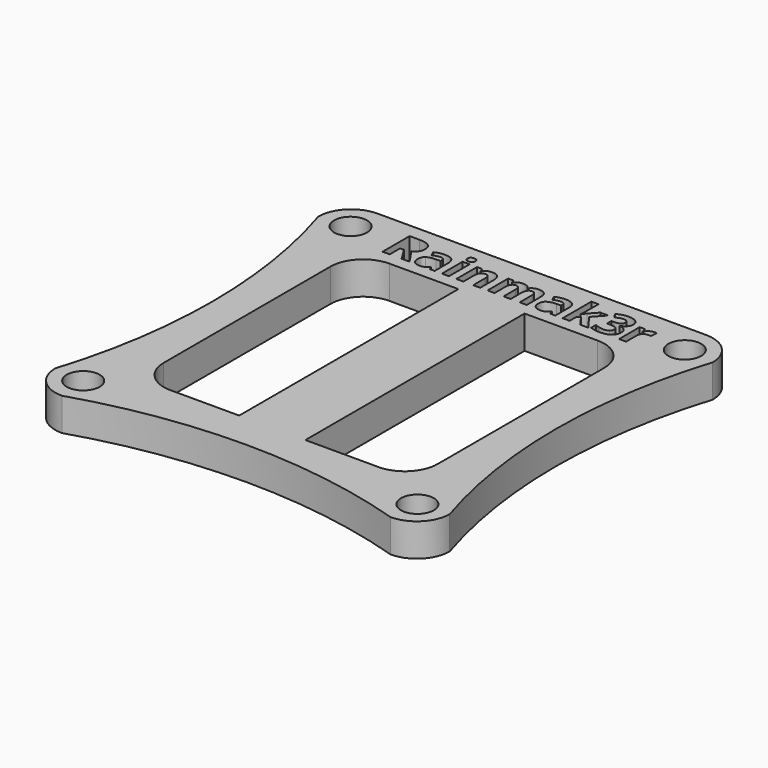
from build123d import *

# Parameters (mm, degrees)
F0_R     = 1.5
F0_W     = 0.6436728242
F0_H     = 2.3599085495
F0_W_2   = 6.0424739495
F0_H_2   = 25
F1_DEPTH = 3


with BuildPart() as f1:
    # F0 (on Top) → F1 (new body)
    with BuildSketch(Plane.XY):
        with BuildLine():
            Line((-3, 28.9222662295), (-33, 28.9222662295))
            ThreePointArc((-33, 28.9222662295), (-35.1213203436, 28.043586573), (-36, 25.9222662295))
            ThreePointArc((-36, 25.9222662295), (-33.6969600708, 10.9222662295), (-36, -4.0777337705))
            ThreePointArc((-36, -4.0777337705), (-35.1213203436, -6.1990541141), (-33, -7.0777337705))
            ThreePointArc((-33, -7.0777337705), (-18, -4.7746938414), (-3, -7.0777337705))
            ThreePointArc((-3, -7.0777337705), (-0.8786796564, -6.1990541141), (0, -4.0777337705))
            ThreePointArc((0, -4.0777337705), (-2.3030399292, 10.9222662295), (0, 25.9222662295))
            ThreePointArc((0, 25.9222662295), (-0.8786796564, 28.043586573), (-3, 28.9222662295))
        make_face()
        with Locations((-33.25, -4.3277337705)):
            Circle(F0_R, mode=Mode.SUBTRACT)
        with Locations((-2.75, -4.3277337705)):
            Circle(F0_R, mode=Mode.SUBTRACT)
        with Locations((-33.25, 26.1722662295)):
            Circle(F0_R, mode=Mode.SUBTRACT)
        with BuildLine():
            Line((-28.0317942331, 25.7348805656), (-28.3796342167, 25.7348805656))
            Line((-28.3796342167, 25.7348805656), (-28.3796342167, 24.5508737862))
            Line((-28.3796342167, 24.5508737862), (-29.03411372, 24.5508737862))
            Line((-29.03411372, 24.5508737862), (-29.03411372, 27.6368560881))
            Line((-29.03411372, 27.6368560881), (-28.135133102, 27.6368560881))
            add(Edge.make_bspline(
                [(-28.135133102, 27.6368560881), (-27.5056440441, 27.6368560881), (-27.2040701554, 27.4078895745)],
                knots=[0, 0, 0, 1, 1, 1], degree=2))
            add(Edge.make_bspline(
                [(-27.2040701554, 27.4078895745), (-26.9024962666, 27.178923061), (-26.9024962666, 26.7122096072)],
                knots=[0, 0, 0, 1, 1, 1], degree=2))
            add(Edge.make_bspline(
                [(-26.9024962666, 26.7122096072), (-26.9024962666, 26.4400163772), (-27.0521012305, 26.2279352998)],
                knots=[0, 0, 0, 1, 1, 1], degree=2))
            add(Edge.make_bspline(
                [(-27.0521012305, 26.2279352998), (-27.2017061943, 26.0158542224), (-27.476601094, 25.8956299173)],
                knots=[0, 0, 0, 1, 1, 1], degree=2))
            add(Edge.make_bspline(
                [(-27.476601094, 25.8956299173), (-26.7795702918, 24.854811636), (-26.5688400492, 24.5508737862)],
                knots=[0, 0, 0, 1, 1, 1], degree=2))
            Line((-26.5688400492, 24.5508737862), (-27.2949138016, 24.5508737862))
            Line((-27.2949138016, 24.5508737862), (-28.0317942331, 25.7348805656))
        make_face(mode=Mode.SUBTRACT)
        with BuildLine():
            Line((-24.2832274186, 24.5508737862), (-24.7323800189, 24.5508737862))
            Line((-24.7323800189, 24.5508737862), (-24.857332246, 24.8716970721))
            Line((-24.857332246, 24.8716970721), (-24.8742176821, 24.8716970721))
            add(Edge.make_bspline(
                [(-24.8742176821, 24.8716970721), (-25.0363178687, 24.6670455866), (-25.2085493169, 24.5876840369)],
                knots=[0, 0, 0, 1, 1, 1], degree=2))
            add(Edge.make_bspline(
                [(-25.2085493169, 24.5876840369), (-25.3807807652, 24.5083224872), (-25.6570264998, 24.5083224872)],
                knots=[0, 0, 0, 1, 1, 1], degree=2))
            add(Edge.make_bspline(
                [(-25.6570264998, 24.5083224872), (-25.9967614741, 24.5083224872), (-26.1919571155, 24.7028427111)],
                knots=[0, 0, 0, 1, 1, 1], degree=2))
            add(Edge.make_bspline(
                [(-26.1919571155, 24.7028427111), (-26.3871527568, 24.897362935), (-26.3871527568, 25.2560095978)],
                knots=[0, 0, 0, 1, 1, 1], degree=2))
            add(Edge.make_bspline(
                [(-26.3871527568, 25.2560095978), (-26.3871527568, 25.6315416967), (-26.1244153711, 25.8098519019)],
                knots=[0, 0, 0, 1, 1, 1], degree=2))
            add(Edge.make_bspline(
                [(-26.1244153711, 25.8098519019), (-25.8616779853, 25.9881621071), (-25.3321507092, 26.0070737956)],
                knots=[0, 0, 0, 1, 1, 1], degree=2))
            Line((-25.3321507092, 26.0070737956), (-24.9221723207, 26.019906727))
            Line((-24.9221723207, 26.019906727), (-24.9221723207, 26.123245596))
            add(Edge.make_bspline(
                [(-24.9221723207, 26.123245596), (-24.9221723207, 26.4818922587), (-25.2895994102, 26.4818922587)],
                knots=[0, 0, 0, 1, 1, 1], degree=2))
            add(Edge.make_bspline(
                [(-25.2895994102, 26.4818922587), (-25.5725993193, 26.4818922587), (-25.9548855926, 26.3110116454)],
                knots=[0, 0, 0, 1, 1, 1], degree=2))
            Line((-25.9548855926, 26.3110116454), (-26.1676420875, 26.7459804794))
            add(Edge.make_bspline(
                [(-26.1676420875, 26.7459804794), (-25.7603653687, 26.9594123917), (-25.2646089648, 26.9594123917)],
                knots=[0, 0, 0, 1, 1, 1], degree=2))
            add(Edge.make_bspline(
                [(-25.2646089648, 26.9594123917), (-24.7897905016, 26.9594123917), (-24.5365089601, 26.7523969451)],
                knots=[0, 0, 0, 1, 1, 1], degree=2))
            add(Edge.make_bspline(
                [(-24.5365089601, 26.7523969451), (-24.2832274186, 26.5453814985), (-24.2832274186, 26.123245596)],
                knots=[0, 0, 0, 1, 1, 1], degree=2))
            Line((-24.2832274186, 26.123245596), (-24.2832274186, 24.5508737862))
        make_face(mode=Mode.SUBTRACT)
        with Locations((-23.2981310764, 25.730828061)):
            Rectangle(F0_W, F0_H, mode=Mode.SUBTRACT)
        with BuildLine():
            add(Edge.make_bspline(
                [(-23.2971179503, 27.2039135064), (-23.6476596037, 27.2039135064), (-23.6476596037, 27.5206842877)],
                knots=[0, 0, 0, 1, 1, 1], degree=2))
            add(Edge.make_bspline(
                [(-23.6476596037, 27.5206842877), (-23.6476596037, 27.8354288166), (-23.2971179503, 27.8354288166)],
                knots=[0, 0, 0, 1, 1, 1], degree=2))
            add(Edge.make_bspline(
                [(-23.2971179503, 27.8354288166), (-22.9465762968, 27.8354288166), (-22.9465762968, 27.5206842877)],
                knots=[0, 0, 0, 1, 1, 1], degree=2))
            add(Edge.make_bspline(
                [(-22.9465762968, 27.5206842877), (-22.9465762968, 27.3707416151), (-23.0340428558, 27.2873275608)],
                knots=[0, 0, 0, 1, 1, 1], degree=2))
            add(Edge.make_bspline(
                [(-23.0340428558, 27.2873275608), (-23.1215094148, 27.2039135064), (-23.2971179503, 27.2039135064)],
                knots=[0, 0, 0, 1, 1, 1], degree=2))
        make_face(mode=Mode.SUBTRACT)
        with BuildLine():
            Line((-20.1226559633, 26.0894747238), (-20.1226559633, 24.5508737862))
            Line((-20.1226559633, 24.5508737862), (-20.7663287874, 24.5508737862))
            Line((-20.7663287874, 24.5508737862), (-20.7663287874, 25.9294007895))
            add(Edge.make_bspline(
                [(-20.7663287874, 25.9294007895), (-20.7663287874, 26.1847085834), (-20.8571724337, 26.3123624803)],
                knots=[0, 0, 0, 1, 1, 1], degree=2))
            add(Edge.make_bspline(
                [(-20.8571724337, 26.3123624803), (-20.9480160799, 26.4400163772), (-21.1465888084, 26.4400163772)],
                knots=[0, 0, 0, 1, 1, 1], degree=2))
            add(Edge.make_bspline(
                [(-21.1465888084, 26.4400163772), (-21.416755786, 26.4400163772), (-21.5369800911, 26.2596799197)],
                knots=[0, 0, 0, 1, 1, 1], degree=2))
            add(Edge.make_bspline(
                [(-21.5369800911, 26.2596799197), (-21.6572043961, 26.0793434621), (-21.6572043961, 25.6612600642)],
                knots=[0, 0, 0, 1, 1, 1], degree=2))
            Line((-21.6572043961, 25.6612600642), (-21.6572043961, 24.5508737862))
            Line((-21.6572043961, 24.5508737862), (-22.3008772203, 24.5508737862))
            Line((-22.3008772203, 24.5508737862), (-22.3008772203, 26.9107823357))
            Line((-22.3008772203, 26.9107823357), (-21.809173321, 26.9107823357))
            Line((-21.809173321, 26.9107823357), (-21.7227198882, 26.6088707382))
            Line((-21.7227198882, 26.6088707382), (-21.6869227637, 26.6088707382))
            add(Edge.make_bspline(
                [(-21.6869227637, 26.6088707382), (-21.5788559726, 26.7797513516), (-21.390076797, 26.8672179106)],
                knots=[0, 0, 0, 1, 1, 1], degree=2))
            add(Edge.make_bspline(
                [(-21.390076797, 26.8672179106), (-21.2012976214, 26.9546844696), (-20.9608490113, 26.9546844696)],
                knots=[0, 0, 0, 1, 1, 1], degree=2))
            add(Edge.make_bspline(
                [(-20.9608490113, 26.9546844696), (-20.5488443704, 26.9546844696), (-20.3357501669, 26.7321344218)],
                knots=[0, 0, 0, 1, 1, 1], degree=2))
            add(Edge.make_bspline(
                [(-20.3357501669, 26.7321344218), (-20.1226559633, 26.5095843739), (-20.1226559633, 26.0894747238)],
                knots=[0, 0, 0, 1, 1, 1], degree=2))
        make_face(mode=Mode.SUBTRACT)
        with BuildLine():
            ThreePointArc((-30.5, 20.4222662295), (-29.6213203436, 22.543586573), (-27.5, 23.4222662295))
            Line((-27.5, 23.4222662295), (-21.2140157819, 23.4222662295))
            Line((-21.2140157819, 23.4222662295), (-15.1715418324, 23.4222662295))
            Line((-15.1715418324, 23.4222662295), (-8.5, 23.4222662295))
            ThreePointArc((-8.5, 23.4222662295), (-6.3786796564, 22.543586573), (-5.5, 20.4222662295))
            Line((-5.5, 20.4222662295), (-5.5, 1.4222662295))
            ThreePointArc((-5.5, 1.4222662295), (-6.3786796564, -0.6990541141), (-8.5, -1.5777337705))
            Line((-8.5, -1.5777337705), (-15.1715418324, -1.5777337705))
            Line((-15.1715418324, -1.5777337705), (-21.2140157819, -1.5777337705))
            Line((-21.2140157819, -1.5777337705), (-27.5, -1.5777337705))
            ThreePointArc((-27.5, -1.5777337705), (-29.6213203436, -0.6990541141), (-30.5, 1.4222662295))
            Line((-30.5, 1.4222662295), (-30.5, 20.4222662295))
        make_face(mode=Mode.SUBTRACT)
        with BuildLine():
            Line((-17.3473656857, 25.7348805656), (-17.3473656857, 24.5508737862))
            Line((-17.3473656857, 24.5508737862), (-17.9910385098, 24.5508737862))
            Line((-17.9910385098, 24.5508737862), (-17.9910385098, 25.9294007895))
            add(Edge.make_bspline(
                [(-17.9910385098, 25.9294007895), (-17.9910385098, 26.1847085834), (-18.0764788165, 26.3123624803)],
                knots=[0, 0, 0, 1, 1, 1], degree=2))
            add(Edge.make_bspline(
                [(-18.0764788165, 26.3123624803), (-18.1619191232, 26.4400163772), (-18.345632668, 26.4400163772)],
                knots=[0, 0, 0, 1, 1, 1], degree=2))
            add(Edge.make_bspline(
                [(-18.345632668, 26.4400163772), (-18.5928354525, 26.4400163772), (-18.7046170395, 26.2583290848)],
                knots=[0, 0, 0, 1, 1, 1], degree=2))
            add(Edge.make_bspline(
                [(-18.7046170395, 26.2583290848), (-18.8163986265, 26.0766417923), (-18.8163986265, 25.6612600642)],
                knots=[0, 0, 0, 1, 1, 1], degree=2))
            Line((-18.8163986265, 25.6612600642), (-18.8163986265, 24.5508737862))
            Line((-18.8163986265, 24.5508737862), (-19.4600714506, 24.5508737862))
            Line((-19.4600714506, 24.5508737862), (-19.4600714506, 26.9107823357))
            Line((-19.4600714506, 26.9107823357), (-18.9683675514, 26.9107823357))
            Line((-18.9683675514, 26.9107823357), (-18.8819141185, 26.6088707382))
            Line((-18.8819141185, 26.6088707382), (-18.846116994, 26.6088707382))
            add(Edge.make_bspline(
                [(-18.846116994, 26.6088707382), (-18.7508831344, 26.7716463422), (-18.571559803, 26.8631654059)],
                knots=[0, 0, 0, 1, 1, 1], degree=2))
            add(Edge.make_bspline(
                [(-18.571559803, 26.8631654059), (-18.3922364716, 26.9546844696), (-18.1598928709, 26.9546844696)],
                knots=[0, 0, 0, 1, 1, 1], degree=2))
            add(Edge.make_bspline(
                [(-18.1598928709, 26.9546844696), (-17.6303655947, 26.9546844696), (-17.4419241278, 26.6088707382)],
                knots=[0, 0, 0, 1, 1, 1], degree=2))
            Line((-17.4419241278, 26.6088707382), (-17.3851890625, 26.6088707382))
            add(Edge.make_bspline(
                [(-17.3851890625, 26.6088707382), (-17.2899552029, 26.7736725946), (-17.1055662407, 26.8641785321)],
                knots=[0, 0, 0, 1, 1, 1], degree=2))
            add(Edge.make_bspline(
                [(-17.1055662407, 26.8641785321), (-16.9211772785, 26.9546844696), (-16.6888336777, 26.9546844696)],
                knots=[0, 0, 0, 1, 1, 1], degree=2))
            add(Edge.make_bspline(
                [(-16.6888336777, 26.9546844696), (-16.2876357159, 26.9546844696), (-16.0819711042, 26.7490198579)],
                knots=[0, 0, 0, 1, 1, 1], degree=2))
            add(Edge.make_bspline(
                [(-16.0819711042, 26.7490198579), (-15.8763064925, 26.5433552462), (-15.8763064925, 26.0894747238)],
                knots=[0, 0, 0, 1, 1, 1], degree=2))
            Line((-15.8763064925, 26.0894747238), (-15.8763064925, 24.5508737862))
            Line((-15.8763064925, 24.5508737862), (-16.522005569, 24.5508737862))
            Line((-16.522005569, 24.5508737862), (-16.522005569, 25.9294007895))
            add(Edge.make_bspline(
                [(-16.522005569, 25.9294007895), (-16.522005569, 26.1847085834), (-16.6074458757, 26.3123624803)],
                knots=[0, 0, 0, 1, 1, 1], degree=2))
            add(Edge.make_bspline(
                [(-16.6074458757, 26.3123624803), (-16.6928861824, 26.4400163772), (-16.8765997272, 26.4400163772)],
                knots=[0, 0, 0, 1, 1, 1], degree=2))
            add(Edge.make_bspline(
                [(-16.8765997272, 26.4400163772), (-17.1129958326, 26.4400163772), (-17.2301807591, 26.2711620162)],
                knots=[0, 0, 0, 1, 1, 1], degree=2))
            add(Edge.make_bspline(
                [(-17.2301807591, 26.2711620162), (-17.3473656857, 26.1023076552), (-17.3473656857, 25.7348805656)],
                knots=[0, 0, 0, 1, 1, 1], degree=2))
        make_face(mode=Mode.SUBTRACT)
        with BuildLine():
            Line((-13.2678443236, 24.5508737862), (-13.7169969239, 24.5508737862))
            Line((-13.7169969239, 24.5508737862), (-13.8419491511, 24.8716970721))
            Line((-13.8419491511, 24.8716970721), (-13.8588345872, 24.8716970721))
            add(Edge.make_bspline(
                [(-13.8588345872, 24.8716970721), (-14.0209347737, 24.6670455866), (-14.193166222, 24.5876840369)],
                knots=[0, 0, 0, 1, 1, 1], degree=2))
            add(Edge.make_bspline(
                [(-14.193166222, 24.5876840369), (-14.3653976702, 24.5083224872), (-14.6416434048, 24.5083224872)],
                knots=[0, 0, 0, 1, 1, 1], degree=2))
            add(Edge.make_bspline(
                [(-14.6416434048, 24.5083224872), (-14.9813783792, 24.5083224872), (-15.1765740205, 24.7028427111)],
                knots=[0, 0, 0, 1, 1, 1], degree=2))
            add(Edge.make_bspline(
                [(-15.1765740205, 24.7028427111), (-15.3717696618, 24.897362935), (-15.3717696618, 25.2560095978)],
                knots=[0, 0, 0, 1, 1, 1], degree=2))
            add(Edge.make_bspline(
                [(-15.3717696618, 25.2560095978), (-15.3717696618, 25.6315416967), (-15.1090322761, 25.8098519019)],
                knots=[0, 0, 0, 1, 1, 1], degree=2))
            add(Edge.make_bspline(
                [(-15.1090322761, 25.8098519019), (-14.8462948904, 25.9881621071), (-14.3167676142, 26.0070737956)],
                knots=[0, 0, 0, 1, 1, 1], degree=2))
            Line((-14.3167676142, 26.0070737956), (-13.9067892257, 26.019906727))
            Line((-13.9067892257, 26.019906727), (-13.9067892257, 26.123245596))
            add(Edge.make_bspline(
                [(-13.9067892257, 26.123245596), (-13.9067892257, 26.4818922587), (-14.2742163152, 26.4818922587)],
                knots=[0, 0, 0, 1, 1, 1], degree=2))
            add(Edge.make_bspline(
                [(-14.2742163152, 26.4818922587), (-14.5572162243, 26.4818922587), (-14.9395024976, 26.3110116454)],
                knots=[0, 0, 0, 1, 1, 1], degree=2))
            Line((-14.9395024976, 26.3110116454), (-15.1522589925, 26.7459804794))
            add(Edge.make_bspline(
                [(-15.1522589925, 26.7459804794), (-14.7449822737, 26.9594123917), (-14.2492258698, 26.9594123917)],
                knots=[0, 0, 0, 1, 1, 1], degree=2))
            add(Edge.make_bspline(
                [(-14.2492258698, 26.9594123917), (-13.7744074066, 26.9594123917), (-13.5211258651, 26.7523969451)],
                knots=[0, 0, 0, 1, 1, 1], degree=2))
            add(Edge.make_bspline(
                [(-13.5211258651, 26.7523969451), (-13.2678443236, 26.5453814985), (-13.2678443236, 26.123245596)],
                knots=[0, 0, 0, 1, 1, 1], degree=2))
            Line((-13.2678443236, 26.123245596), (-13.2678443236, 24.5508737862))
        make_face(mode=Mode.SUBTRACT)
        Polygon((-11.9946824416, 25.8341669299), (-11.9859020148, 25.8341669299), (-11.7056037755, 26.1928135927), (-11.0450455153, 26.9107823357), (-10.3189717629, 26.9107823357), (-11.2557757578, 25.8868494905), (-10.2615612802, 24.5508737862), (-11.0045204686, 24.5508737862), (-11.6839904173, 25.507264887), (-11.9609115694, 25.2857279653), (-11.9609115694, 24.5508737862), (-12.6045843936, 24.5508737862), (-12.6045843936, 27.8354288166), (-11.9609115694, 27.8354288166), (-11.9609115694, 26.3704483805), align=None, mode=Mode.SUBTRACT)
        with BuildLine():
            add(Edge.make_bspline(
                [(-8.3291919727, 27.4865757068), (-8.0515954032, 27.2923931916), (-8.0515954032, 26.9465794602)],
                knots=[0, 0, 0, 1, 1, 1], degree=2))
            add(Edge.make_bspline(
                [(-8.0515954032, 26.9465794602), (-8.0515954032, 26.6575007942), (-8.22686623, 26.454875561)],
                knots=[0, 0, 0, 1, 1, 1], degree=2))
            add(Edge.make_bspline(
                [(-8.22686623, 26.454875561), (-8.4021370567, 26.2522503278), (-8.718907838, 26.1759281566)],
                knots=[0, 0, 0, 1, 1, 1], degree=2))
            Line((-8.718907838, 26.1759281566), (-8.718907838, 26.1637706426))
            add(Edge.make_bspline(
                [(-8.718907838, 26.1637706426), (-8.3447265739, 26.117166839), (-8.1529080198, 25.9364926727)],
                knots=[0, 0, 0, 1, 1, 1], degree=2))
            add(Edge.make_bspline(
                [(-8.1529080198, 25.9364926727), (-7.9610894657, 25.7558185064), (-7.9610894657, 25.4498544042)],
                knots=[0, 0, 0, 1, 1, 1], degree=2))
            add(Edge.make_bspline(
                [(-7.9610894657, 25.4498544042), (-7.9610894657, 25.0047543086), (-8.283939004, 24.7565383979)],
                knots=[0, 0, 0, 1, 1, 1], degree=2))
            add(Edge.make_bspline(
                [(-8.283939004, 24.7565383979), (-8.6067885422, 24.5083224872), (-9.2058838151, 24.5083224872)],
                knots=[0, 0, 0, 1, 1, 1], degree=2))
            add(Edge.make_bspline(
                [(-9.2058838151, 24.5083224872), (-9.7083943935, 24.5083224872), (-10.0967594238, 24.6751505959)],
                knots=[0, 0, 0, 1, 1, 1], degree=2))
            Line((-10.0967594238, 24.6751505959), (-10.0967594238, 25.2303437349))
            add(Edge.make_bspline(
                [(-10.0967594238, 25.2303437349), (-9.9177738011, 25.1398377974), (-9.7023156365, 25.0827650234)],
                knots=[0, 0, 0, 1, 1, 1], degree=2))
            add(Edge.make_bspline(
                [(-9.7023156365, 25.0827650234), (-9.4868574718, 25.0256922494), (-9.2761272293, 25.0256922494)],
                knots=[0, 0, 0, 1, 1, 1], degree=2))
            add(Edge.make_bspline(
                [(-9.2761272293, 25.0256922494), (-8.9526022736, 25.0256922494), (-8.7986070963, 25.135447584)],
                knots=[0, 0, 0, 1, 1, 1], degree=2))
            add(Edge.make_bspline(
                [(-8.7986070963, 25.135447584), (-8.6446119191, 25.2452029187), (-8.6446119191, 25.4883531985)],
                knots=[0, 0, 0, 1, 1, 1], degree=2))
            add(Edge.make_bspline(
                [(-8.6446119191, 25.4883531985), (-8.6446119191, 25.7051621981), (-8.8219089982, 25.7960058443)],
                knots=[0, 0, 0, 1, 1, 1], degree=2))
            add(Edge.make_bspline(
                [(-8.8219089982, 25.7960058443), (-8.9992060772, 25.8868494905), (-9.3875711076, 25.8868494905)],
                knots=[0, 0, 0, 1, 1, 1], degree=2))
            Line((-9.3875711076, 25.8868494905), (-9.6219409606, 25.8868494905))
            Line((-9.6219409606, 25.8868494905), (-9.6219409606, 26.3873338166))
            Line((-9.6219409606, 26.3873338166), (-9.3835186029, 26.3873338166))
            add(Edge.make_bspline(
                [(-9.3835186029, 26.3873338166), (-9.0248719401, 26.3873338166), (-8.8590569576, 26.4812168413)],
                knots=[0, 0, 0, 1, 1, 1], degree=2))
            add(Edge.make_bspline(
                [(-8.8590569576, 26.4812168413), (-8.6932419751, 26.575099866), (-8.6932419751, 26.8027155447)],
                knots=[0, 0, 0, 1, 1, 1], degree=2))
            add(Edge.make_bspline(
                [(-8.6932419751, 26.8027155447), (-8.6932419751, 27.1532571981), (-9.1322633137, 27.1532571981)],
                knots=[0, 0, 0, 1, 1, 1], degree=2))
            add(Edge.make_bspline(
                [(-9.1322633137, 27.1532571981), (-9.2842322386, 27.1532571981), (-9.4416045031, 27.1026008898)],
                knots=[0, 0, 0, 1, 1, 1], degree=2))
            add(Edge.make_bspline(
                [(-9.4416045031, 27.1026008898), (-9.5989767675, 27.0519445815), (-9.7907953217, 26.9276677718)],
                knots=[0, 0, 0, 1, 1, 1], degree=2))
            Line((-9.7907953217, 26.9276677718), (-10.0927069191, 27.3768203721))
            add(Edge.make_bspline(
                [(-10.0927069191, 27.3768203721), (-9.6705710166, 27.6807582219), (-9.0856595101, 27.6807582219)],
                knots=[0, 0, 0, 1, 1, 1], degree=2))
            add(Edge.make_bspline(
                [(-9.0856595101, 27.6807582219), (-8.6067885422, 27.6807582219), (-8.3291919727, 27.4865757068)],
                knots=[0, 0, 0, 1, 1, 1], degree=2))
        make_face(mode=Mode.SUBTRACT)
        with BuildLine():
            add(Edge.make_bspline(
                [(-6.5457522117, 26.8334470384), (-6.3589992884, 26.9546844696), (-6.1394886191, 26.9546844696)],
                knots=[0, 0, 0, 1, 1, 1], degree=2))
            add(Edge.make_bspline(
                [(-6.1394886191, 26.9546844696), (-6.008457635, 26.9546844696), (-5.9220042021, 26.9357727811)],
                knots=[0, 0, 0, 1, 1, 1], degree=2))
            Line((-5.9220042021, 26.9357727811), (-5.9706342581, 26.3326250036))
            add(Edge.make_bspline(
                [(-5.9706342581, 26.3326250036), (-6.0489826816, 26.3535629444), (-6.1604265599, 26.3535629444)],
                knots=[0, 0, 0, 1, 1, 1], degree=2))
            add(Edge.make_bspline(
                [(-6.1604265599, 26.3535629444), (-6.4684169144, 26.3535629444), (-6.6406483626, 26.1951775537)],
                knots=[0, 0, 0, 1, 1, 1], degree=2))
            add(Edge.make_bspline(
                [(-6.6406483626, 26.1951775537), (-6.8128798108, 26.0367921631), (-6.8128798108, 25.7517660017)],
                knots=[0, 0, 0, 1, 1, 1], degree=2))
            Line((-6.8128798108, 25.7517660017), (-6.8128798108, 24.5508737862))
            Line((-6.8128798108, 24.5508737862), (-7.456552635, 24.5508737862))
            Line((-7.456552635, 24.5508737862), (-7.456552635, 26.9107823357))
            Line((-7.456552635, 26.9107823357), (-6.9689012404, 26.9107823357))
            Line((-6.9689012404, 26.9107823357), (-6.8736673808, 26.5136368786))
            Line((-6.8736673808, 26.5136368786), (-6.8425981784, 26.5136368786))
            add(Edge.make_bspline(
                [(-6.8425981784, 26.5136368786), (-6.732505135, 26.7122096072), (-6.5457522117, 26.8334470384)],
                knots=[0, 0, 0, 1, 1, 1], degree=2))
        make_face(mode=Mode.SUBTRACT)
        with Locations((-2.75, 26.1722662295)):
            Circle(F0_R, mode=Mode.SUBTRACT)
        with Locations((-18.1927788071, 10.9222662295)):
            Rectangle(F0_W_2, F0_H_2)
    extrude(amount=F1_DEPTH)


solid = f1.part
